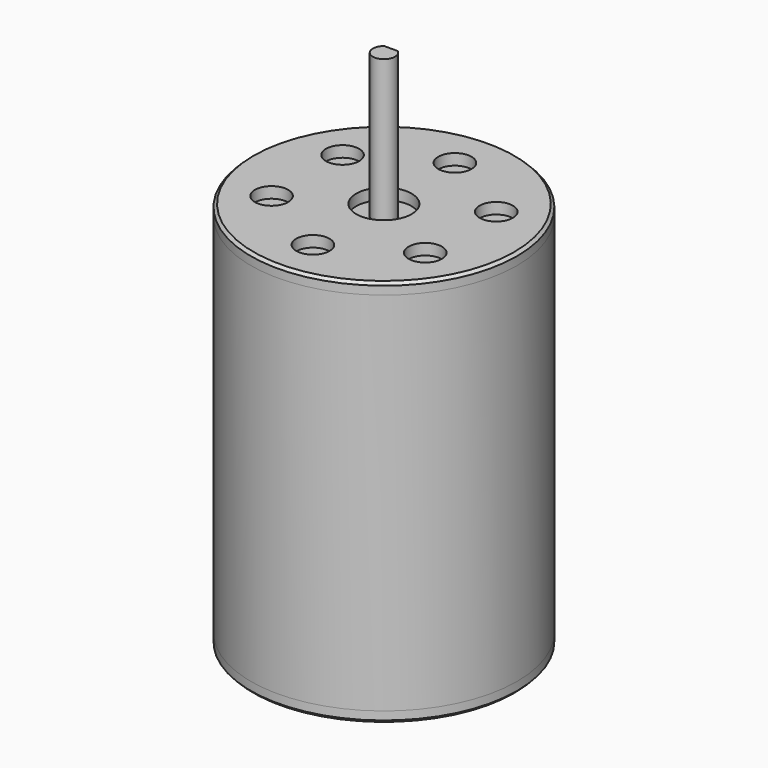
from build123d import *

# Parameters (mm, degrees)
F0_R      = 12
F0_R_2    = 1.5
F0_R_3    = 2.5
F1_DEPTH  = 1
F2_START  = 1
F2_DEPTH  = 33
F3_START  = 34
F3_DEPTH  = 1
F4_START  = 33
F4_DEPTH  = 14
F5_SIZE   = 0.25
F5_2_SIZE = 0.25


with BuildPart() as f1:
    # F0 (on Top) → F1 (new body)
    with BuildSketch(Plane.XY):
        Circle(F0_R)
        with Locations((-6.9282032303, -4)):
            Circle(F0_R_2, mode=Mode.SUBTRACT)
        with Locations((0, -8)):
            Circle(F0_R_2, mode=Mode.SUBTRACT)
        with Locations((6.9282032303, -4)):
            Circle(F0_R_2, mode=Mode.SUBTRACT)
        with Locations((-6.9282032303, 4)):
            Circle(F0_R_2, mode=Mode.SUBTRACT)
        Circle(F0_R_3, mode=Mode.SUBTRACT)
        with Locations((6.9282032303, 4)):
            Circle(F0_R_2, mode=Mode.SUBTRACT)
        with Locations((0, 8)):
            Circle(F0_R_2, mode=Mode.SUBTRACT)
        with Locations((-6.9282032303, 4)):
            Circle(F0_R_2)
        with Locations((-6.9282032303, -4)):
            Circle(F0_R_2)
        with Locations((0, -8)):
            Circle(F0_R_2)
        with Locations((6.9282032303, -4)):
            Circle(F0_R_2)
        with Locations((6.9282032303, 4)):
            Circle(F0_R_2)
        with Locations((0, 8)):
            Circle(F0_R_2)
    extrude(amount=F1_DEPTH)

    # F5#2
    f5_2_edges = [f1.edges().sort_by_distance(p)[0] for p in [
        (-12, 0, 0),
    ]]
    chamfer(f5_2_edges, length=F5_2_SIZE)


with BuildPart() as f2:
    # F0 (on Top) → F2 (new body)
    with BuildSketch(Plane.XY.offset(F2_START)):
        Circle(F0_R)
        with Locations((-6.9282032303, -4)):
            Circle(F0_R_2, mode=Mode.SUBTRACT)
        with Locations((0, -8)):
            Circle(F0_R_2, mode=Mode.SUBTRACT)
        with Locations((6.9282032303, -4)):
            Circle(F0_R_2, mode=Mode.SUBTRACT)
        with Locations((-6.9282032303, 4)):
            Circle(F0_R_2, mode=Mode.SUBTRACT)
        Circle(F0_R_3, mode=Mode.SUBTRACT)
        with Locations((6.9282032303, 4)):
            Circle(F0_R_2, mode=Mode.SUBTRACT)
        with Locations((0, 8)):
            Circle(F0_R_2, mode=Mode.SUBTRACT)
        Circle(F0_R_3)
        with BuildLine():
            ThreePointArc((0.6, 0.8), (0.894427191, 0.4472135955), (1, 0))
            ThreePointArc((1, 0), (-0.4472135955, -0.894427191), (-0.6, 0.8))
            ThreePointArc((-0.6, 0.8), (0, 1), (0.6, 0.8))
        make_face(mode=Mode.SUBTRACT)
        with Locations((-6.9282032303, -4)):
            Circle(F0_R_2)
        with Locations((0, -8)):
            Circle(F0_R_2)
        with Locations((6.9282032303, 4)):
            Circle(F0_R_2)
        with Locations((6.9282032303, -4)):
            Circle(F0_R_2)
        with Locations((0, 8)):
            Circle(F0_R_2)
        with Locations((-6.9282032303, 4)):
            Circle(F0_R_2)
        with BuildLine():
            ThreePointArc((-0.6, 0.8), (-0.4472135955, -0.894427191), (1, 0))
            ThreePointArc((1, 0), (0.894427191, 0.4472135955), (0.6, 0.8))
            Line((0.6, 0.8), (-0.6, 0.8))
        make_face()
        with BuildLine():
            Line((-0.6, 0.8), (0.6, 0.8))
            ThreePointArc((0.6, 0.8), (0, 1), (-0.6, 0.8))
        make_face()
    extrude(amount=F2_DEPTH)


with BuildPart() as f3:
    # F0 (on Top) → F3 (new body)
    with BuildSketch(Plane.XY.offset(F3_START)):
        Circle(F0_R)
        with Locations((-6.9282032303, -4)):
            Circle(F0_R_2, mode=Mode.SUBTRACT)
        with Locations((0, -8)):
            Circle(F0_R_2, mode=Mode.SUBTRACT)
        with Locations((6.9282032303, -4)):
            Circle(F0_R_2, mode=Mode.SUBTRACT)
        with Locations((-6.9282032303, 4)):
            Circle(F0_R_2, mode=Mode.SUBTRACT)
        Circle(F0_R_3, mode=Mode.SUBTRACT)
        with Locations((6.9282032303, 4)):
            Circle(F0_R_2, mode=Mode.SUBTRACT)
        with Locations((0, 8)):
            Circle(F0_R_2, mode=Mode.SUBTRACT)
    extrude(amount=F3_DEPTH)

    # F5
    f5_edges = [f3.edges().sort_by_distance(p)[0] for p in [
        (-12, 0, 35),
    ]]
    chamfer(f5_edges, length=F5_SIZE)


with BuildPart() as f4:
    # F0 (on Top) → F4 (new body)
    with BuildSketch(Plane.XY.offset(F4_START)):
        with BuildLine():
            ThreePointArc((-0.6, 0.8), (-0.4472135955, -0.894427191), (1, 0))
            ThreePointArc((1, 0), (0.894427191, 0.4472135955), (0.6, 0.8))
            Line((0.6, 0.8), (-0.6, 0.8))
        make_face()
    extrude(amount=F4_DEPTH)


solid = Compound([f1.part, f2.part, f3.part, f4.part])
